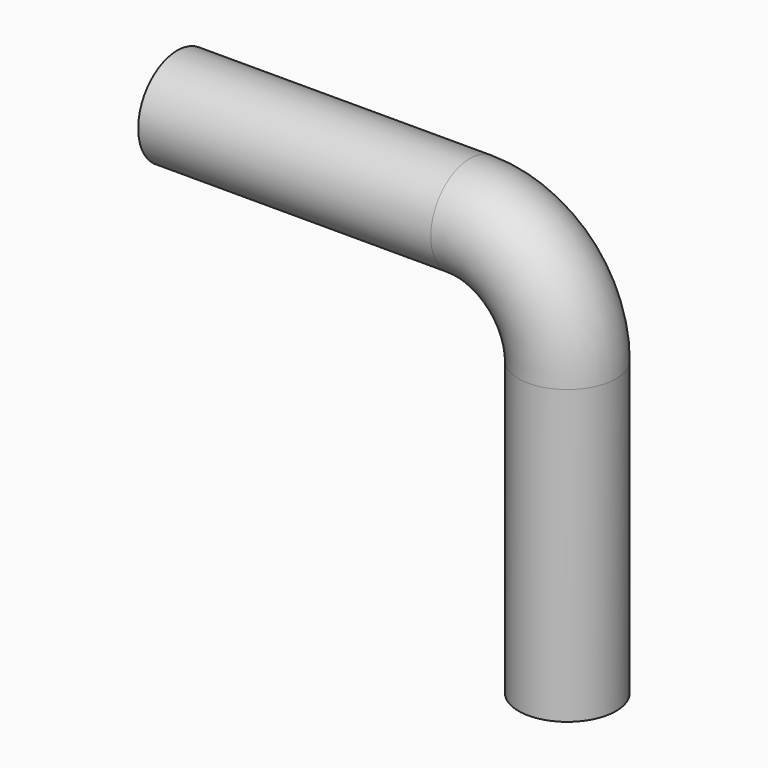
from build123d import *

# Parameters (mm, degrees)
F0_R        = 5
F0_R_2      = 3
F1_DEPTH    = 30
F1_FACE_R   = 5
F1_FACE_R_2 = 3


with BuildPart() as f1:
    # F0 (on Right) → F1 (new body)
    with BuildSketch(Plane.YZ):
        Circle(F0_R)
        Circle(F0_R_2, mode=Mode.SUBTRACT)
    extrude(amount=-F1_DEPTH)

    # F3: sweep along a path in F2
    with BuildLine(Plane.XZ) as f3_path:
        ThreePointArc((0, 0), (7.071068, -2.928932), (10, -10))
        Line((10, -10), (10, -40))
    # F1_face (on face) → F3 (sweep)
    with BuildSketch(Plane.YZ):
        Circle(F1_FACE_R)
        Circle(F1_FACE_R_2, mode=Mode.SUBTRACT)
    sweep(path=f3_path.line)


solid = f1.part
